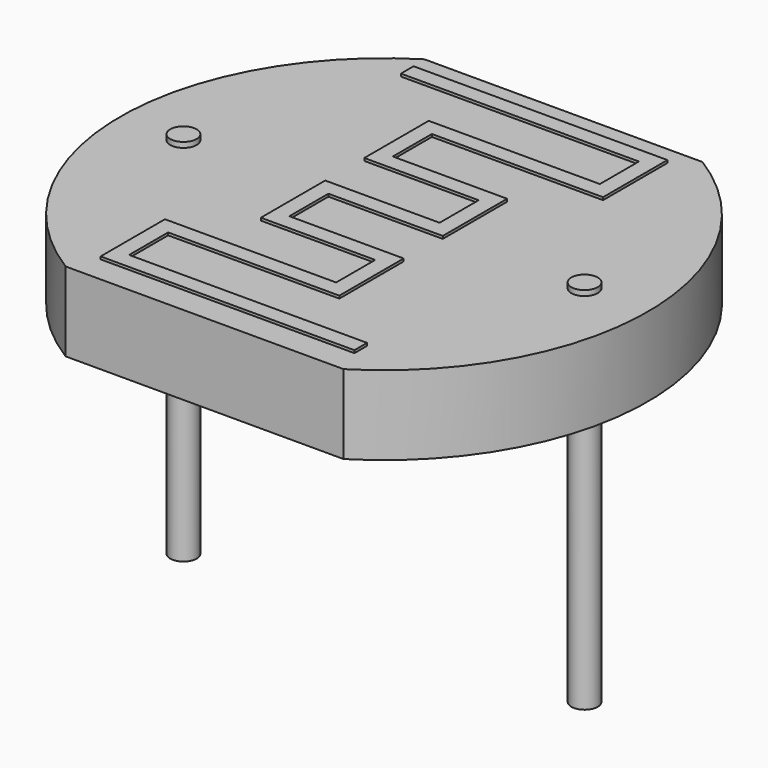
from build123d import *

# Parameters (mm, degrees)
PAD001_DEPTH   = 1.5
SKETCH_R       = 0.25
PAD_DEPTH      = 4
PAD_DEPTH_BACK = 3
PAD002_DEPTH   = 0.05


with BuildPart() as pad001:
    # Sketch001 → Pad001 (new body)
    with BuildSketch(Plane.XY.offset(3.9)):
        with BuildLine():
            ThreePointArc((1.166087, 4.25), (-1.2, 0), (1.166087, -4.25))
            Line((1.166087, -4.25), (6.433913, -4.25))
            ThreePointArc((6.433913, -4.25), (8.8, 0), (6.433913, 4.25))
            Line((1.166087, 4.25), (6.433913, 4.25))
        make_face()
    extrude(amount=-PAD001_DEPTH)


with BuildPart() as pad:
    # Sketch → Pad (new body, two sides)
    with BuildSketch(Plane.XY) as pad_sk:
        Circle(SKETCH_R)
        with Locations((7.6, 0)):
            Circle(SKETCH_R)
    extrude(amount=PAD_DEPTH)
    extrude(pad_sk.sketch, amount=-PAD_DEPTH_BACK)


with BuildPart() as obj1:
    # Sketch002 → Pad002 (new body)
    with BuildSketch(Plane.XY.offset(3.95)):
        Polygon((1.3, 3.525), (5.81, 3.525), (5.81, 2.6), (2.566667, 2.6), (2.566667, 2.3), (2.566667, 1.075), (2.866667, 1.075), (4.733333, 1.075), (4.733333, 0.15), (2.566667, 0.15), (2.566667, -0.15), (2.566667, -1.375), (2.866667, -1.375), (4.733333, -1.375), (4.733333, -2.3), (1.49, -2.3), (1.49, -2.6), (1.49, -3.825), (1.79, -3.825), (6.3, -3.825), (6.3, -3.525), (1.79, -3.525), (1.79, -2.6), (4.733333, -2.6), (5.033333, -2.6), (5.033333, -1.375), (5.033333, -1.075), (2.866667, -1.075), (2.866667, -0.15), (4.733333, -0.15), (5.033333, -0.15), (5.033333, 1.075), (5.033333, 1.375), (2.866667, 1.375), (2.866667, 2.3), (5.81, 2.3), (6.11, 2.3), (6.11, 3.525), (6.11, 3.825), (1.3, 3.825), align=None)
    extrude(amount=PAD002_DEPTH)

    add(pad001.part)
    add(pad.part)


solid = obj1.part
